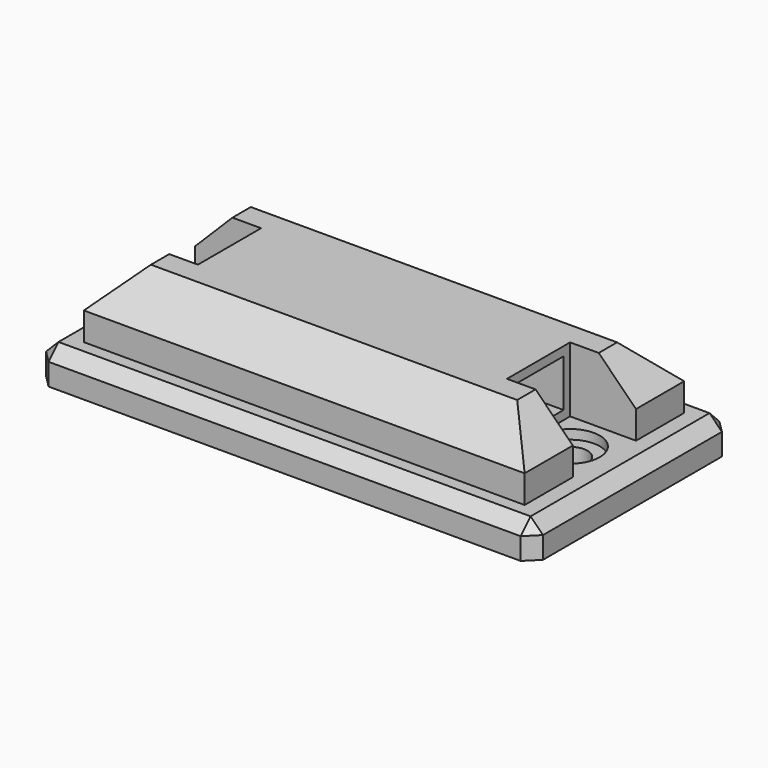
from build123d import *

# Parameters (mm, degrees)
F0_W     = 50.8
F0_H     = 25.4
F0_R     = 3
F1_DEPTH = 3.5
F2_DEPTH = 10.16
F3_SIZE  = 1.27
F4_SIZE  = 3.81
F0_R_2   = 1.75
F5_DEPTH = 2.54
F6_W     = 6.391182
F6_H     = 4.83196
F7_DEPTH = 31.592


with BuildPart() as f1:
    # F0 (on Top) → F1 (new body)
    with BuildSketch(Plane.XY):
        with Locations((2.701852, 34.358082)):
            Rectangle(F0_W, F0_H)
        Polygon((-19.831223, 38.395144), (-19.831223, 44.550914), (25.234927, 44.550914), (25.234927, 38.395144), (18.497852, 38.395144), (18.497852, 30.32102), (25.234927, 30.32102), (25.234927, 24.16525), (-19.831223, 24.16525), (-19.831223, 30.32102), (-13.094148, 30.32102), (-13.094148, 38.395144), align=None, mode=Mode.SUBTRACT)
        with Locations((-16.348148, 34.358082)):
            Circle(F0_R, mode=Mode.SUBTRACT)
        with Locations((21.751852, 34.358082)):
            Circle(F0_R, mode=Mode.SUBTRACT)
    extrude(amount=F1_DEPTH)

    # F0 (on Top) → F2 (join)
    with BuildSketch(Plane.XY):
        Polygon((25.234927, 44.550914), (-19.831223, 44.550914), (-19.831223, 38.395144), (-13.094148, 38.395144), (-13.094148, 30.32102), (-19.831223, 30.32102), (-19.831223, 24.16525), (25.234927, 24.16525), (25.234927, 30.32102), (18.497852, 30.32102), (18.497852, 38.395144), (25.234927, 38.395144), align=None)
    extrude(amount=F2_DEPTH)

    # F3
    f3_edges = [f1.edges().sort_by_distance(p)[0] for p in [
        (-22.698148, 34.358082, 3.5),
        (2.701852, 21.658082, 3.5),
        (2.701852, 47.058082, 3.5),
        (28.101852, 34.358082, 3.5),
        (-22.698148, 47.058082, 1.75),
        (-22.698148, 21.658082, 1.75),
        (28.101852, 21.658082, 1.75),
        (28.101852, 47.058082, 1.75),
    ]]
    chamfer(f3_edges, length=F3_SIZE)

    # F4
    f4_edges = [f1.edges().sort_by_distance(p)[0] for p in [
        (25.234927, 41.473029, 10.16),
        (2.701852, 44.550914, 10.16),
        (25.234927, 27.243135, 10.16),
        (2.701852, 24.16525, 10.16),
        (-19.831223, 41.473029, 10.16),
        (-19.831223, 27.243135, 10.16),
    ]]
    chamfer(f4_edges, length=F4_SIZE)

    # F0 (on Top) → F5 (join)
    with BuildSketch(Plane.XY):
        with Locations((21.751852, 34.358082)):
            Circle(F0_R)
        with Locations((21.751852, 34.358082)):
            Circle(F0_R_2, mode=Mode.SUBTRACT)
        with Locations((-16.348148, 34.358082)):
            Circle(F0_R)
        with Locations((-16.348148, 34.358082)):
            Circle(F0_R_2, mode=Mode.SUBTRACT)
    extrude(amount=F5_DEPTH)

    # F6 (on face) → F7 (cut, through all)
    with BuildSketch(Plane(origin=(-13.094148, 0, 0), x_dir=(0, -1, 0), z_dir=(-1, 0, 0))):
        with Locations((-34.358082, 6.83)):
            Rectangle(F6_W, F6_H)
    extrude(amount=-F7_DEPTH, mode=Mode.SUBTRACT)


solid = f1.part
